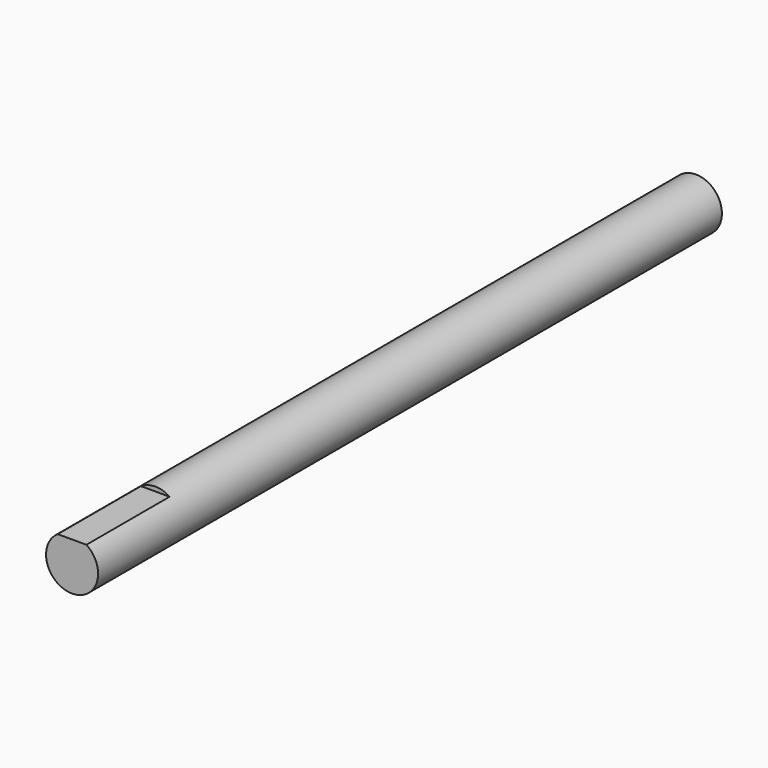
from build123d import *

# Parameters (mm, degrees)
F0_R     = 3
F1_DEPTH = 90
F2_W     = 7.713479
F2_H     = 2.347581
F3_DEPTH = 12


with BuildPart() as f1:
    # F0 (on Front) → F1 (new body)
    with BuildSketch(Plane.XZ):
        Circle(F0_R)
    extrude(amount=F1_DEPTH)

    # F2 (on face) → F3 (cut)
    with BuildSketch(Plane.XZ.offset(90)):
        with Locations((0.812188, 3.67379)):
            Rectangle(F2_W, F2_H)
    extrude(amount=-F3_DEPTH, mode=Mode.SUBTRACT)


solid = f1.part
